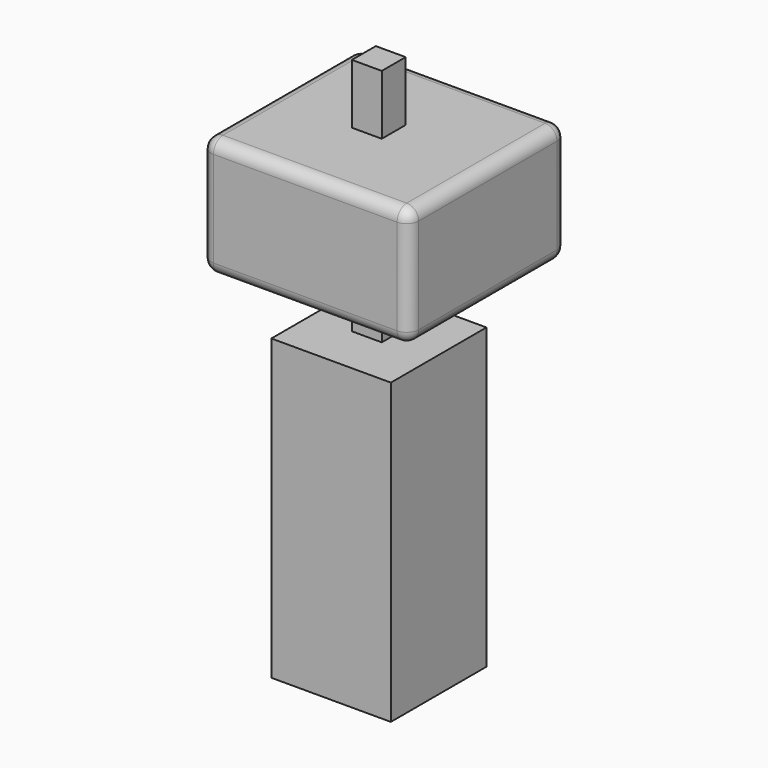
from build123d import *

# Parameters (mm, degrees)
F0_W      = 50.8
F0_H      = 127
F1_DEPTH  = 50.8
F2_W      = 12.7
F2_H      = 12.7
F3_DEPTH  = 25.4
F4_W      = 88.255308
F4_H      = 83.674579
F4_W_2    = 12.7
F4_H_2    = 12.7
F5_DEPTH  = 50.8
F3_FACE_W = 12.7
F3_FACE_H = 12.7
F6_DEPTH  = 76.2
F7_R      = 5.08


with BuildPart() as f1:
    # F0 (on Front) → F1 (new body)
    with BuildSketch(Plane.XZ):
        with Locations((-25.4, 63.5)):
            Rectangle(F0_W, F0_H)
    extrude(amount=F1_DEPTH)

    # F2 (on face) → F3 (join)
    with BuildSketch(Plane.XY.offset(127)):
        with Locations((-26.783913, -23.730097)):
            Rectangle(F2_W, F2_H)
    extrude(amount=F3_DEPTH)


with BuildPart() as f5:
    # F4 (on face) → F5 (new body)
    with BuildSketch(Plane.XY.offset(152.4)):
        with Locations((-24.125155, -24.277844)):
            Rectangle(F4_W, F4_H)
        with Locations((-26.783913, -23.730097)):
            Rectangle(F4_W_2, F4_H_2, mode=Mode.SUBTRACT)
    extrude(amount=F5_DEPTH)

    # F7
    f7_edges = [f5.edges().sort_by_distance(p)[0] for p in [
        (20.002499, 17.559446, 177.8),
        (-24.125155, 17.559446, 203.2),
        (-68.252809, 17.559446, 177.8),
        (-24.125155, 17.559446, 152.4),
        (-68.252809, -24.277844, 203.2),
        (-68.252809, -24.277844, 152.4),
        (-68.252809, -66.115133, 177.8),
        (-24.125155, -66.115133, 203.2),
        (20.002499, -66.115133, 177.8),
        (-24.125155, -66.115133, 152.4),
        (20.002499, -24.277844, 203.2),
        (20.002499, -24.277844, 152.4),
    ]]
    fillet(f7_edges, radius=F7_R)


with BuildPart() as f6:
    # F3_face (on face) → F6 (new body)
    with BuildSketch(Plane(origin=(-26.783913, -23.730097, 152.4), x_dir=(1, 0, 0), z_dir=(0, 0, 1))):
        Rectangle(F3_FACE_W, F3_FACE_H)
    extrude(amount=F6_DEPTH)


solid = Compound([f1.part, f5.part, f6.part])
